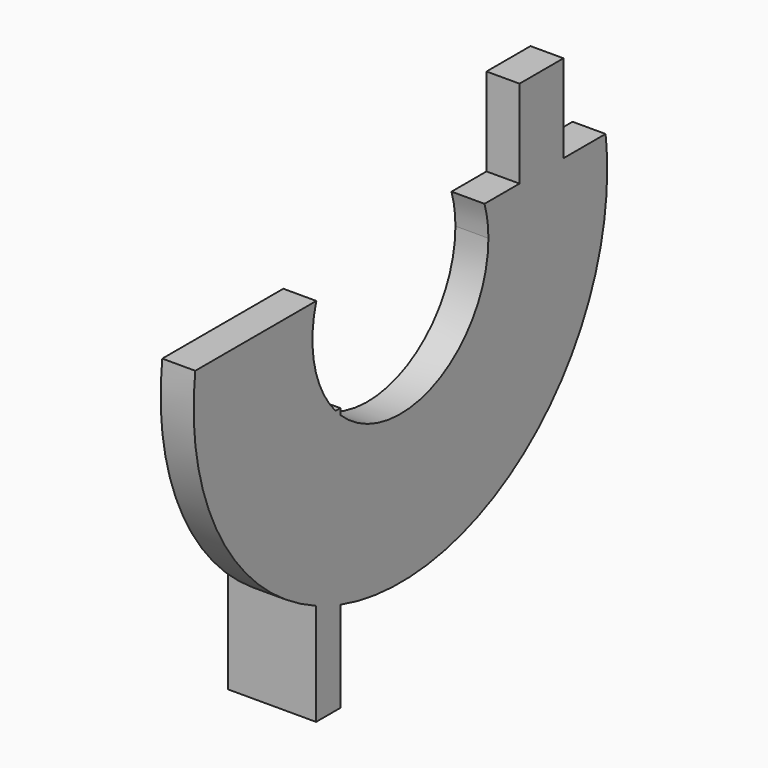
from build123d import *

# Parameters (mm, degrees)
F3_W          = 5
F3_H          = 8
F4_DEPTH      = 3
F5_DEPTH      = 5
F5_DEPTH_BACK = 3


with BuildPart() as f4:
    # F3 (on Right) → F4 (new body)
    with BuildSketch(Plane.YZ):
        with BuildLine():
            ThreePointArc((19.1383222897, 0.0889776102), (19.469019625, -1.3642024736), (19.5800742792, -2.8503922149))
            ThreePointArc((19.5800742792, -2.8503922149), (13.5612334827, -12.023743369), (2.75, -10.1545064899))
            Line((2.75, -10.1545064899), (2.75, -25.3359450287))
            ThreePointArc((2.75, -25.3359450287), (23.5754887861, -21.7283786748), (33.0800742792, -2.8503922149))
            ThreePointArc((33.0800742792, -2.8503922149), (33.0338908423, -1.3778133128), (32.8955220559, 0.0889776102))
            Line((32.8955220559, 0.0889776102), (28.1147146076, 0.0889776102))
            Line((28.1147146076, 0.0889776102), (23.1147146076, 0.0889776102))
            Line((23.1147146076, 0.0889776102), (19.1383222897, 0.0889776102))
        make_face()
        with BuildLine():
            ThreePointArc((2.2018949322, -9.6003899574), (-0.1760316999, -5.0454767522), (0.0218262686, 0.0889776102))
            Line((0.0218262686, 0.0889776102), (-13.7353734976, 0.0889776102))
            ThreePointArc((-13.7353734976, 0.0889776102), (-10.8978226866, -14.3788672164), (0, -24.3090076597))
            Line((0, -24.3090076597), (0, -9.6003899574))
            Line((0, -9.6003899574), (2.2018949322, -9.6003899574))
        make_face()
        with BuildLine():
            Line((2.75, -25.3359450287), (2.75, -10.1545064899))
            ThreePointArc((2.75, -10.1545064899), (2.4705469349, -9.8827901659), (2.2018949322, -9.6003899574))
            Line((2.2018949322, -9.6003899574), (0, -9.6003899574))
            Line((0, -9.6003899574), (0, -24.3090076597))
            ThreePointArc((0, -24.3090076597), (1.3589494159, -24.8654576471), (2.75, -25.3359450287))
        make_face()
        with Locations((25.6147146076, 4.0889776102)):
            Rectangle(F3_W, F3_H)
    extrude(amount=F4_DEPTH)

    # F3 (on Right) → F5 (join, two sides)
    with BuildSketch(Plane.YZ) as f5_sk:
        with BuildLine():
            ThreePointArc((2.2018949322, -9.6003899574), (2.4705469349, -9.8827901659), (2.75, -10.1545064899))
            Line((2.75, -10.1545064899), (2.75, -9.6003899574))
            Line((2.75, -9.6003899574), (2.2018949322, -9.6003899574))
        make_face()
        with BuildLine():
            Line((2.75, -25.3359450287), (2.75, -10.1545064899))
            ThreePointArc((2.75, -10.1545064899), (2.4705469349, -9.8827901659), (2.2018949322, -9.6003899574))
            Line((2.2018949322, -9.6003899574), (0, -9.6003899574))
            Line((0, -9.6003899574), (0, -24.3090076597))
            ThreePointArc((0, -24.3090076597), (1.3589494159, -24.8654576471), (2.75, -25.3359450287))
        make_face()
        with BuildLine():
            Line((2.75, -33.6003899574), (2.75, -25.3359450287))
            ThreePointArc((2.75, -25.3359450287), (1.3589494159, -24.8654576471), (0, -24.3090076597))
            Line((0, -24.3090076597), (0, -33.6003899574))
            Line((0, -33.6003899574), (2.75, -33.6003899574))
        make_face()
    extrude(amount=-F5_DEPTH)
    extrude(f5_sk.sketch, amount=F5_DEPTH_BACK)


solid = f4.part
